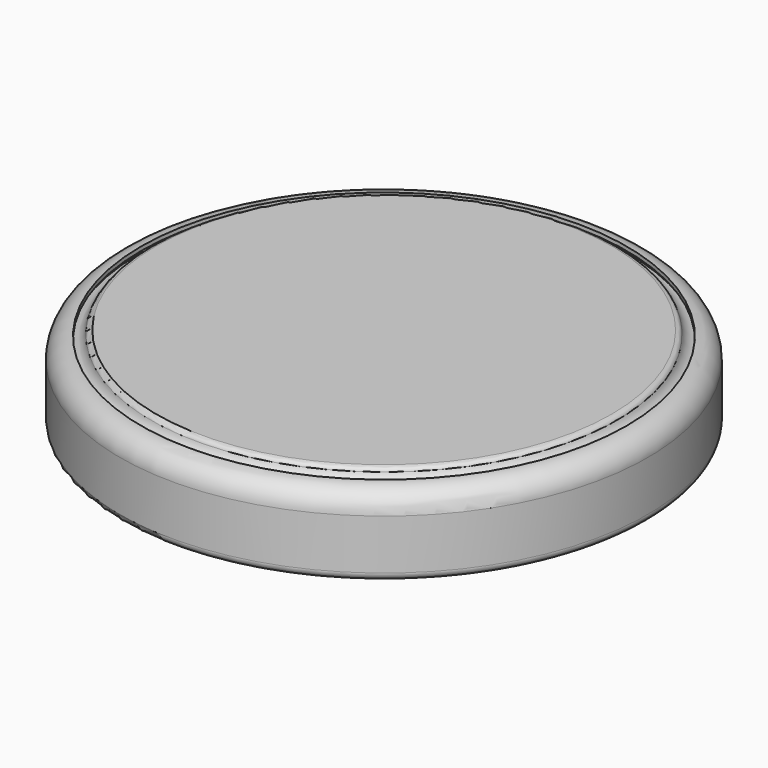
from build123d import *


with BuildPart() as f1:
    # F0 (on Front) → F1 (revolve)
    with BuildSketch(Plane.XZ):
        with BuildLine():
            Line((-9.7, 0), (0, 0))
            Line((0, 0), (0, 0.15))
            Line((0, 0.15), (-9.7, 0.15))
            ThreePointArc((-9.7, 0.15), (-9.806066, 0.193934), (-9.85, 0.3))
            Line((-9.85, 0.3), (-9.85, 2.2))
            ThreePointArc((-9.85, 2.2), (-9.659619, 2.659619), (-9.2, 2.85))
            Line((-9.2, 2.85), (-9.2, 3))
            ThreePointArc((-9.2, 3), (-9.765685, 2.765685), (-10, 2.2))
            Line((-10, 2.2), (-10, 0.3))
            ThreePointArc((-10, 0.3), (-9.912132, 0.087868), (-9.7, 0))
        make_face()
        with BuildLine():
            Line((0, 3.2), (-8.62918, 3.2))
            ThreePointArc((-8.62918, 3.2), (-8.748702, 3.160357), (-8.820843, 3.057143))
            ThreePointArc((-8.820843, 3.057143), (-9.001193, 2.799108), (-9.3, 2.7))
            Line((-9.3, 2.7), (-9.3, 1.125))
            ThreePointArc((-9.3, 1.125), (-9.325, 1.1), (-9.35, 1.125))
            Line((-9.35, 1.125), (-9.35, 2.65))
            Line((-9.35, 2.65), (-9.5, 2.65))
            Line((-9.5, 2.65), (-9.5, 1.125))
            ThreePointArc((-9.5, 1.125), (-9.325, 0.95), (-9.15, 1.125))
            Line((-9.15, 1.125), (-9.15, 2.567544))
            ThreePointArc((-9.15, 2.567544), (-8.853637, 2.727496), (-8.677095, 3.014286))
            ThreePointArc((-8.677095, 3.014286), (-8.65906, 3.040089), (-8.62918, 3.05))
            Line((-8.62918, 3.05), (0, 3.05))
            Line((0, 3.05), (0, 3.2))
        make_face()
    revolve(axis=Axis((0, 0, 4.193154), (0, 0, -1)))


with BuildPart() as f3:
    # F2 (on Front) → F3 (revolve)
    with BuildSketch(Plane.XZ):
        with BuildLine():
            Line((-9.85, 2.2), (-9.85, 0.3))
            ThreePointArc((-9.85, 0.3), (-9.806066, 0.193934), (-9.7, 0.15))
            Line((-9.7, 0.15), (-8.65, 0.15))
            Line((-8.65, 0.15), (-8.65, 1.75))
            Line((-8.65, 1.75), (-9.15, 1.75))
            Line((-9.15, 1.75), (-9.15, 1.125))
            ThreePointArc((-9.15, 1.125), (-9.325, 0.95), (-9.5, 1.125))
            Line((-9.5, 1.125), (-9.5, 2.6))
            Line((-9.5, 2.6), (-9.712348, 2.6))
            ThreePointArc((-9.712348, 2.6), (-9.814624, 2.411511), (-9.85, 2.2))
        make_face()
    revolve(axis=Axis((0, 0, 2.840054), (0, 0, 1)))


solid = Compound([f1.part, f3.part])
